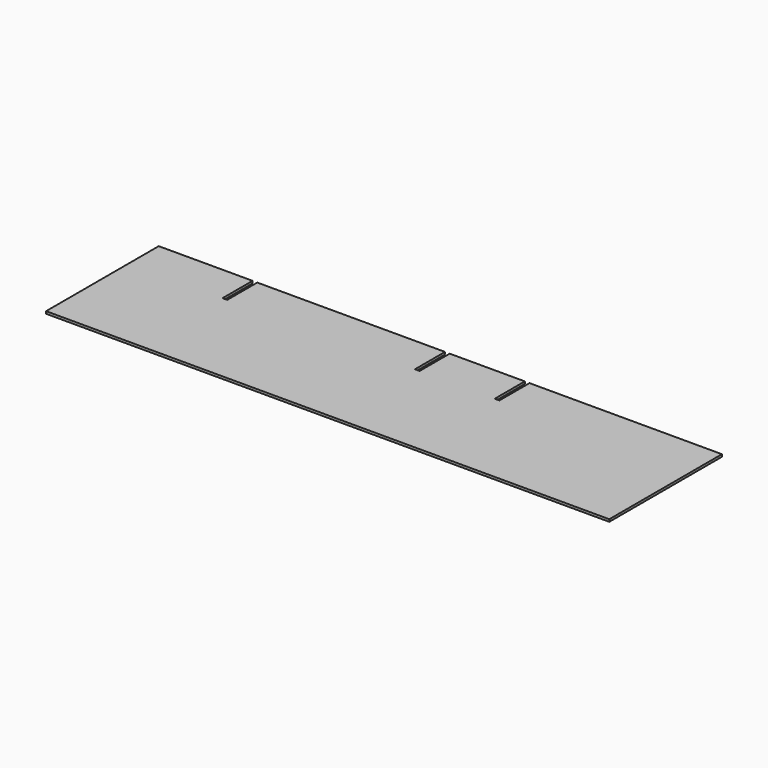
from build123d import *

# Parameters (mm, degrees)
F1_DEPTH = 6.35


with BuildPart() as f1:
    # F0 (on Top) → F1 (new body)
    with BuildSketch(Plane.XY):
        Polygon((-508, 254), (-762, 254), (-762, -127), (762, -127), (762, 254), (241.3, 254), (241.3, 152.4), (228.6, 152.4), (228.6, 254), (25.4, 254), (25.4, 152.4), (12.7, 152.4), (12.7, 254), (-495.3, 254), (-495.3, 152.4), (-508, 152.4), align=None)
    extrude(amount=F1_DEPTH)


solid = f1.part
